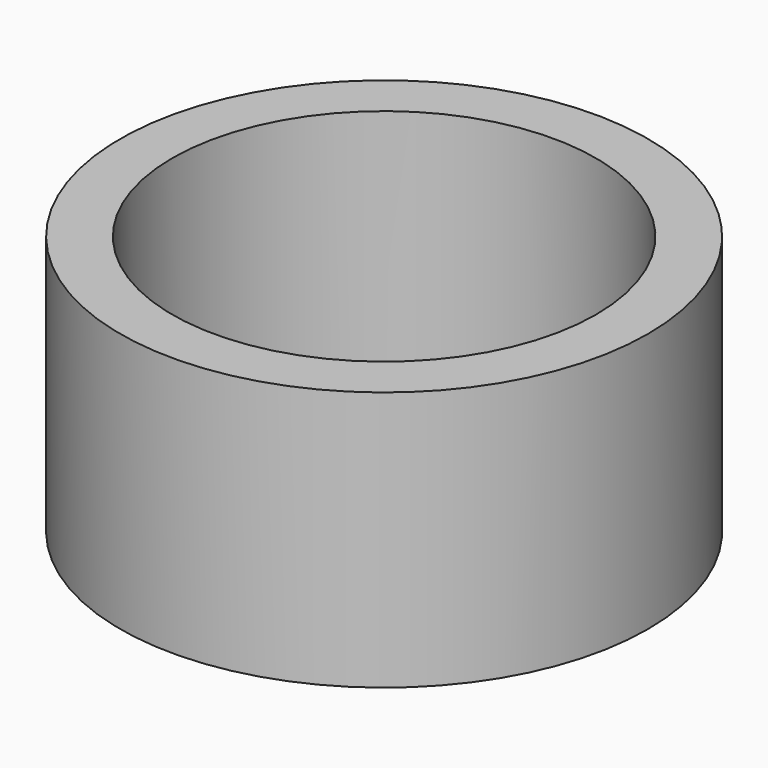
from build123d import *

# Parameters (mm, degrees)
F0_R     = 25.800862
F1_DEPTH = 25.4
F2_R     = 20.708075
F3_DEPTH = 25.401


with BuildPart() as f1:
    # F0 (on Top) → F1 (new body)
    with BuildSketch(Plane.XY):
        Circle(F0_R)
    extrude(amount=F1_DEPTH)

    # F2 (on Top) → F3 (cut, through all)
    with BuildSketch(Plane.XY):
        Circle(F2_R)
    extrude(amount=F3_DEPTH, mode=Mode.SUBTRACT)


solid = f1.part
